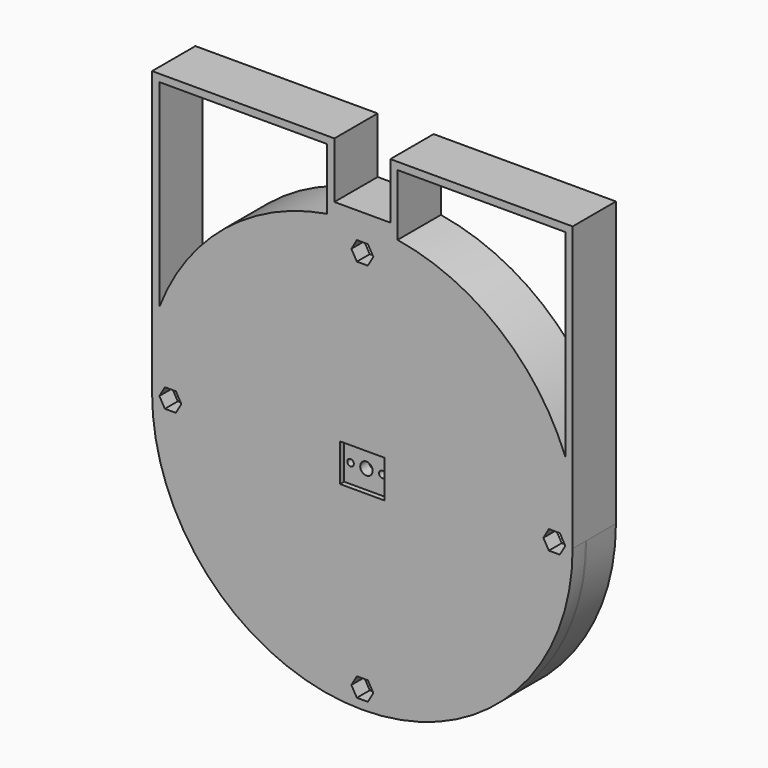
from build123d import *

# Parameters (mm, degrees)
SKETCH121_R     = 57.5
SKETCH121_R_2   = 50.2
PAD044_DEPTH    = 10
SKETCH122_R     = 57.5
SKETCH122_R_2   = 52.7
PAD045_DEPTH    = 10
SKETCH123_R     = 55.2
SKETCH123_R_2   = 45.630592
POCKET065_DEPTH = 10.001
SKETCH124_R     = 55.2
SKETCH124_R_2   = 52.7
PAD046_DEPTH    = 2.6
SKETCH125_R     = 57.5
SKETCH125_R_2   = 52.7
PAD047_DEPTH    = 0.4
SKETCH126_R     = 1.75
POCKET066_DEPTH = 5
SKETCH127_R     = 57.5
PAD048_DEPTH    = 4.4
SKETCH128_W     = 12.18
SKETCH128_H     = 10.29
POCKET067_DEPTH = 1.4
SKETCH129_R     = 1.7
POCKET068_DEPTH = 14.801
SKETCH130_R     = 0.9
POCKET069_DEPTH = 14.801
SKETCH131_R     = 1.55
POCKET070_DEPTH = 1
PAD049_DEPTH    = 14.8


with BuildPart() as part:
    # Sketch121 (on DatumPlane) → Pad044 (new body)
    with BuildSketch(Plane.XZ.offset(10)):
        Circle(SKETCH121_R)
        Circle(SKETCH121_R_2, mode=Mode.SUBTRACT)
    extrude(amount=-PAD044_DEPTH)

    # Sketch122 (on DatumPlane) → Pad045 (new body)
    with BuildSketch(Plane.XZ.offset(10)):
        Circle(SKETCH122_R)
        Circle(SKETCH122_R_2, mode=Mode.SUBTRACT)
    extrude(amount=-PAD045_DEPTH)

    # Sketch123 (on Face4 of PolarPattern014) → Pocket065 (cut, through all)
    with BuildSketch(Plane.XZ.offset(10)):
        Circle(SKETCH123_R)
        Circle(SKETCH123_R_2, mode=Mode.SUBTRACT)
    extrude(amount=-POCKET065_DEPTH, mode=Mode.SUBTRACT)

    # Sketch124 (on Face2 of Pocket065) → Pad046 (new body)
    with BuildSketch(Plane.XZ.offset(10)):
        Circle(SKETCH124_R)
        Circle(SKETCH124_R_2, mode=Mode.SUBTRACT)
    extrude(amount=-PAD046_DEPTH)

    # Sketch125 (on Face6 of Pad046) → Pad047 (new body)
    with BuildSketch(Plane.XZ.offset(10)):
        Circle(SKETCH125_R)
        Circle(SKETCH125_R_2, mode=Mode.SUBTRACT)
    extrude(amount=PAD047_DEPTH)

    # Sketch126 (on Face5 of Pad047) → Pocket066 (cut)
    with BuildSketch(Plane.XZ.offset(10.4)):
        with Locations((0, -52.5)):
            Circle(SKETCH126_R)
        with Locations((-52.5, 0)):
            Circle(SKETCH126_R)
        with Locations((0, 52.5)):
            Circle(SKETCH126_R)
        with Locations((52.5, 0)):
            Circle(SKETCH126_R)
    extrude(amount=-POCKET066_DEPTH, mode=Mode.SUBTRACT)

    # Sketch127 (on Face4 of Pocket066) → Pad048 (new body)
    with BuildSketch(Plane.XZ.offset(10.4)):
        Circle(SKETCH127_R)
        Polygon((3, -52.5), (1.5, -49.901924), (-1.5, -49.901924), (-3, -52.5), (-1.5, -55.098076), (1.5, -55.098076), align=None, mode=Mode.SUBTRACT)
        Polygon((3, 52.5), (1.5, 55.098076), (-1.5, 55.098076), (-3, 52.5), (-1.5, 49.901924), (1.5, 49.901924), align=None, mode=Mode.SUBTRACT)
        Polygon((-49.5, 0), (-51, 2.598076), (-54, 2.598076), (-55.5, 0), (-54, -2.598076), (-51, -2.598076), align=None, mode=Mode.SUBTRACT)
        Polygon((55.5, 0), (54, 2.598076), (51, 2.598076), (49.5, 0), (51, -2.598076), (54, -2.598076), align=None, mode=Mode.SUBTRACT)
    extrude(amount=PAD048_DEPTH)

    # Sketch128 (on Face13 of Pad048) → Pocket067 (cut)
    with BuildSketch(Plane.XZ.offset(14.8)):
        Rectangle(SKETCH128_W, SKETCH128_H)
    extrude(amount=-POCKET067_DEPTH, mode=Mode.SUBTRACT)

    # Sketch129 (on Face4 of Pocket067) → Pocket068 (cut, through all)
    with BuildSketch(Plane.XZ.offset(14.8)):
        Circle(SKETCH129_R)
    extrude(amount=-POCKET068_DEPTH, mode=Mode.SUBTRACT)

    # Sketch130 (on Face4 of Pocket068) → Pocket069 (cut, through all)
    with BuildSketch(Plane.XZ.offset(14.8)):
        with Locations((-4.35, 0)):
            Circle(SKETCH130_R)
        with Locations((4.35, 0)):
            Circle(SKETCH130_R)
    extrude(amount=-POCKET069_DEPTH, mode=Mode.SUBTRACT)

    # Sketch131 (on Face42 of Pocket069) → Pocket070 (cut)
    with BuildSketch(Plane(origin=(0, -10.4, 0), x_dir=(1, 0, 0), z_dir=(0, 1, 0))):
        with Locations((-4.35, 0)):
            Circle(SKETCH131_R)
        with Locations((4.35, 0)):
            Circle(SKETCH131_R)
    extrude(amount=-POCKET070_DEPTH, mode=Mode.SUBTRACT)

    # Sketch132 (on Face1 of Pocket070) → Pad049 (new body)
    with BuildSketch(Plane(origin=(0, 0, 0), x_dir=(1, 0, 0), z_dir=(0, 1, 0))):
        with BuildLine():
            Line((-7.65, -62.26), (7.65, -62.26))
            Line((7.65, -62.26), (7.65, -77.56))
            Line((7.65, -77.56), (57.5, -77.56))
            Line((57.5, 0), (57.5, -77.56))
            ThreePointArc((-57.5, 0), (0, -57.5), (57.5, 0))
            Line((-57.5, 0), (-57.5, -77.56))
            Line((-57.5, -77.56), (-7.65, -77.56))
            Line((-7.65, -62.26), (-7.65, -77.56))
        make_face()
        with BuildLine():
            Line((9.640661, -58.760865), (9.65, -75.56))
            Line((9.65, -75.56), (55.5, -75.56))
            Line((55.500076, -21.447651), (55.5, -75.56))
            ThreePointArc((9.640661, -58.760865), (37.533805, -46.204517), (55.500076, -21.447651))
        make_face(mode=Mode.SUBTRACT)
        with BuildLine():
            Line((-9.65, -75.56), (-55.5, -75.56))
            Line((-55.500076, -21.447651), (-55.5, -75.56))
            ThreePointArc((-55.500076, -21.447651), (-37.533805, -46.204517), (-9.640661, -58.760865))
            Line((-9.640661, -58.760865), (-9.65, -75.56))
        make_face(mode=Mode.SUBTRACT)
    extrude(amount=-PAD049_DEPTH)


solid = part.part
